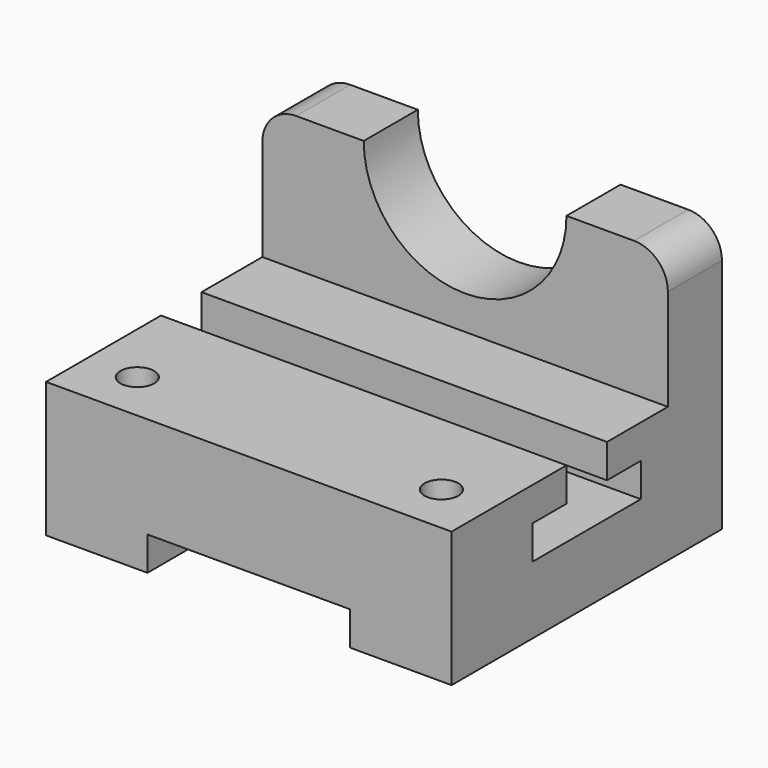
from build123d import *

# Parameters (mm, degrees)
F0_W     = 25.4
F0_H     = 50.8
F1_DEPTH = 152.4
F2_W     = 76.2
F2_H     = 12.7
F3_DEPTH = 127.001
F4_R     = 12.7
F5_R     = 6.35
F6_DEPTH = 50.801
F7_R     = 38.1
F8_DEPTH = 25.401


with BuildPart() as f1:
    # F0 (on Right) → F1 (new body)
    with BuildSketch(Plane.YZ):
        Polygon((-73.025, 50.8), (-127, 50.8), (-127, 0), (0, 0), (0, 50.8), (-25.4, 50.8), (-53.975, 50.8), (-53.975, 38.1), (-38.1, 38.1), (-38.1, 25.4), (-88.9, 25.4), (-88.9, 38.1), (-73.025, 38.1), align=None)
        with Locations((-12.7, 76.2)):
            Rectangle(F0_W, F0_H)
    extrude(amount=-F1_DEPTH)

    # F2 (on face) → F3 (cut, through all)
    with BuildSketch(Plane.XZ.offset(127)):
        with Locations((-76.2, 6.35)):
            Rectangle(F2_W, F2_H)
    extrude(amount=-F3_DEPTH, mode=Mode.SUBTRACT)

    # F4
    f4_edges = [f1.edges().sort_by_distance(p)[0] for p in [
        (0, -12.7, 101.6),
        (-152.4, -12.7, 101.6),
    ]]
    fillet(f4_edges, radius=F4_R)

    # F5 (on face) → F6 (cut, through all)
    with BuildSketch(Plane.XY.offset(50.8)):
        with Locations((-133.35, -107.95)):
            Circle(F5_R)
        with Locations((-19.05, -107.95)):
            Circle(F5_R)
    extrude(amount=-F6_DEPTH, mode=Mode.SUBTRACT)

    # F7 (on face) → F8 (cut, through all)
    with BuildSketch(Plane.XZ.offset(25.4)):
        with Locations((-76.2, 101.6)):
            Circle(F7_R)
    extrude(amount=-F8_DEPTH, mode=Mode.SUBTRACT)


solid = f1.part
